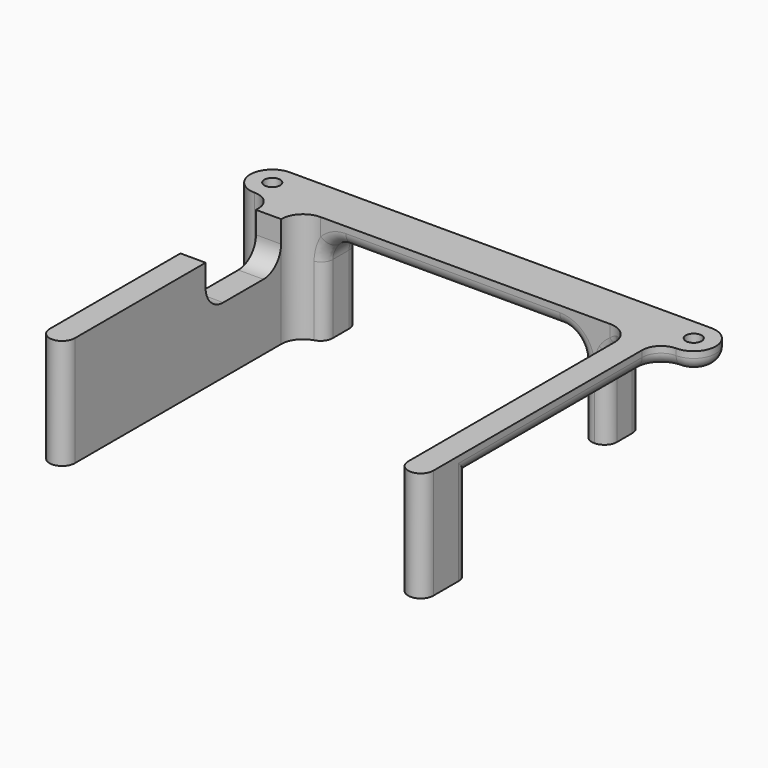
from build123d import *

# Parameters (mm, degrees)
SKETCH_R          = 1.25
PAD_DEPTH         = 17.5
POCKET_DEPTH      = 53.501
POCKET_DEPTH_BACK = 0.001
POCKET001_DEPTH   = 5
PAD001_DEPTH      = 14.5
FILLET_R          = 1.99


with BuildPart() as part:
    # Sketch → Pad (new body)
    with BuildSketch(Plane.XY):
        with BuildLine():
            Line((0, 3.5), (67, 3.5))
            ThreePointArc((67, -3.5), (70.5, 0), (67, 3.5))
            ThreePointArc((67, -3.5), (64.87868, -4.37868), (64, -6.5))
            Line((64, -48), (64, -6.5))
            ThreePointArc((60, -48), (62, -50), (64, -48))
            Line((60, -48), (60, -7))
            ThreePointArc((60, -7), (58.974874, -4.525126), (56.5, -3.5))
            Line((56.5, -3.5), (10.5, -3.5))
            ThreePointArc((10.5, -3.5), (8.025126, -4.525126), (7, -7))
            Line((7, -7), (7, -48))
            ThreePointArc((3, -48), (5, -50), (7, -48))
            Line((3, -48), (3, -6.5))
            ThreePointArc((3, -6.5), (2.12132, -4.37868), (0, -3.5))
            ThreePointArc((0, 3.5), (-3.5, 0), (0, -3.5))
        make_face()
        Circle(SKETCH_R, mode=Mode.SUBTRACT)
        with Locations((67, 0)):
            Circle(SKETCH_R, mode=Mode.SUBTRACT)
    extrude(amount=-PAD_DEPTH)

    # Sketch001 (on Face4 of Pad) → Pocket (cut, two sides)
    with BuildSketch(Plane(origin=(0, 3.5, 0), x_dir=(-1, 0, 0), z_dir=(0, 1, 0))) as pocket_sk:
        with BuildLine():
            Line((-11, -17.5), (-52, -17.5))
            Line((-52, -17.5), (-52, -6.5))
            ThreePointArc((-48.5, -3), (-50.974874, -4.025126), (-52, -6.5))
            Line((-48.5, -3), (-14.5, -3))
            ThreePointArc((-11, -6.5), (-12.025126, -4.025126), (-14.5, -3))
            Line((-11, -6.5), (-11, -17.5))
        make_face()
        with BuildLine():
            Line((-56, -17.5), (-56, -6.5))
            ThreePointArc((-56, -6.5), (-57.025126, -4.025126), (-59.5, -3))
            Line((-59.5, -3), (-70.5, -3))
            Line((-70.5, -3), (-70.5, -17.5))
            Line((-70.5, -17.5), (-56, -17.5))
        make_face()
    extrude(amount=-POCKET_DEPTH, mode=Mode.SUBTRACT)
    extrude(pocket_sk.sketch, amount=POCKET_DEPTH_BACK, mode=Mode.SUBTRACT)

    # Sketch002 (on Face1 of Pocket) → Pocket001 (cut)
    with BuildSketch(Plane(origin=(3, 0, 0), x_dir=(0, -1, 0), z_dir=(-1, 0, 0))):
        with BuildLine():
            Line((7, 0), (7, -3.5))
            ThreePointArc((7, -3.5), (8.025126, -5.974874), (10.5, -7))
            Line((10.5, -7), (18.5, -7))
            ThreePointArc((18.5, -7), (20.974874, -5.974874), (22, -3.5))
            Line((22, -3.5), (22, 0))
            Line((22, 0), (7, 0))
        make_face()
    extrude(amount=-POCKET001_DEPTH, mode=Mode.SUBTRACT)

    # Sketch003 (on Face26 of Pocket001) → Pad001 (join)
    with BuildSketch(Plane(origin=(0, 0, -3), x_dir=(1, 0, 0), z_dir=(0, 0, -1))):
        with BuildLine():
            ThreePointArc((64, 48), (62, 50), (60, 48))
            Line((60, 48), (60, 43))
            ThreePointArc((60, 43), (62, 41), (64, 43))
            Line((64, 43), (64, 48))
        make_face()
    extrude(amount=PAD001_DEPTH)

    # Fillet
    fillet_edges = [part.edges().sort_by_distance(p)[0] for p in [
        (11, -3.5, -12),
        (11, 3.5, -12),
        (56, 3.5, -12),
        (52, 3.5, -12),
        (56, -3.5, -12),
        (52, -3.5, -12),
    ]]
    fillet(fillet_edges, radius=FILLET_R)


solid = part.part
